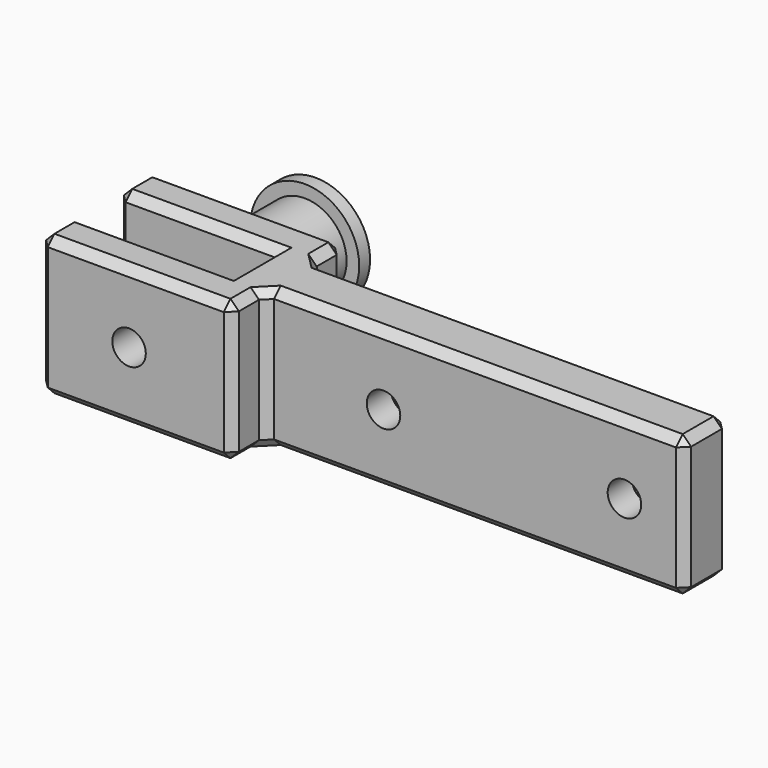
from build123d import *

# Parameters (mm, degrees)
F1_DEPTH      = 16.75
F2_R          = 2
F3_DEPTH      = 12.5
F4_SIZE       = 1
F2_R_2        = 3.2
F5_DEPTH      = 25
F6_DEPTH      = 15.55
F7_R          = 3.05
F7_R_2        = 2
F8_DEPTH      = 2.675
F8_DEPTH_BACK = 18
F9_START      = -8.275
F7_R_3        = 5
F9_DEPTH      = 9.725
F10_START     = -0.3
F2_R_3        = 3
F10_DEPTH     = 9.85
F11_START     = -17.925
F7_R_4        = 6.5
F11_DEPTH     = 1.625


with BuildPart() as f1:
    # F0 (on Top) → F1 (new body)
    with BuildSketch(Plane.XY):
        Polygon((-20.9333471719, 8.3), (-43.9333471719, 8.3), (-43.9333471719, 3.3), (-24.9333471719, 3.3), (-24.9333471719, 0), (-24.9333471719, -3.3), (-43.9333471719, -3.3), (-43.9333471719, -8.3), (-20.9333471719, -8.3), (-20.9333471719, -3.3), (-20.9333471719, 0), (-20.9333471719, 3.3), align=None)
        Polygon((29.0258359164, 3.3), (-20.9333471719, 3.3), (-20.9333471719, 0), (-20.9333471719, -3.3), (29.0258359164, -3.3), (29.0258359164, 0), align=None)
    extrude(amount=F1_DEPTH)

    # F2 (on Front) → F3 (cut, symmetric)
    with BuildSketch(Plane.XZ):
        with Locations((21.8758359164, 8.375)):
            Circle(F2_R)
        with Locations((-6.8741640836, 8.382800118)):
            Circle(F2_R)
    extrude(amount=F3_DEPTH, both=True, mode=Mode.SUBTRACT)

    # F4
    f4_edges = [f1.edges().sort_by_distance(p)[0] for p in [
        (-32.433347, -8.3, 16.75),
        (-20.933347, -5.8, 16.75),
        (4.046244, -3.3, 16.75),
        (29.025836, 0, 16.75),
        (4.046244, 3.3, 16.75),
        (-20.933347, 5.8, 16.75),
        (-32.433347, 8.3, 16.75),
        (-43.933347, 5.8, 16.75),
        (-43.933347, -5.8, 16.75),
        (29.025836, -3.3, 8.375),
        (29.025836, 3.3, 8.375),
        (4.046244, 3.3, 0),
        (4.046244, -3.3, 0),
        (-20.933347, -5.8, 0),
        (-20.933347, 5.8, 0),
        (-20.933347, -8.3, 8.375),
        (-20.933347, 8.3, 8.375),
        (-32.433347, 8.3, 0),
        (-32.433347, -8.3, 0),
        (-24.933347, 0, 0),
        (-24.933347, 0, 16.75),
        (-34.433347, 3.3, 16.75),
        (-34.433347, -3.3, 16.75),
        (-34.433347, -3.3, 0),
        (-34.433347, 3.3, 0),
        (-43.933347, -8.3, 8.375),
        (-43.933347, 8.3, 8.375),
        (-43.933347, 3.3, 8.375),
        (-43.933347, -3.3, 8.375),
        (-43.933347, 5.8, 0),
        (-43.933347, -5.8, 0),
        (29.025836, 0, 0),
        (-20.933347, -3.3, 8.375),
        (-20.933347, 3.3, 8.375),
    ]]
    chamfer(f4_edges, length=F4_SIZE)

    # F2 (on Front) → F5 (cut)
    with BuildSketch(Plane.XZ):
        with Locations((-33.2333471719, 8.375)):
            Circle(F2_R_2)
        with Locations((-33.2333471719, 8.375)):
            Circle(F2_R, mode=Mode.SUBTRACT)
        with Locations((-33.2333471719, 8.375)):
            Circle(F2_R)
    extrude(amount=-F5_DEPTH, mode=Mode.SUBTRACT)

    # F2 (on Front) → F6 (cut)
    with BuildSketch(Plane.XZ):
        with Locations((-33.2333471719, 8.375)):
            Circle(F2_R)
    extrude(amount=F6_DEPTH, mode=Mode.SUBTRACT)

    # F2 (on Front) → F10 (cut)
    with BuildSketch(Plane.XZ.offset(F10_START)):
        with Locations((21.8758359164, 8.375)):
            Circle(F2_R_3)
        with Locations((21.8758359164, 8.375)):
            Circle(F2_R, mode=Mode.SUBTRACT)
        with Locations((-6.8741640836, 8.382800118)):
            Circle(F2_R_3)
        with Locations((-6.8741640836, 8.382800118)):
            Circle(F2_R, mode=Mode.SUBTRACT)
    extrude(amount=-F10_DEPTH, mode=Mode.SUBTRACT)


with BuildPart() as f8:
    # F7 (on Front) → F8 (new body, two sides)
    with BuildSketch(Plane.XZ) as f8_sk:
        with Locations((-33.2561954856, 8.3787553012)):
            Circle(F7_R)
        with Locations((-33.2561954856, 8.3787553012)):
            Circle(F7_R_2, mode=Mode.SUBTRACT)
    extrude(amount=F8_DEPTH)
    extrude(f8_sk.sketch, amount=-F8_DEPTH_BACK)



with BuildPart() as f9:
    # F7 (on Front) → F9 (new body)
    with BuildSketch(Plane.XZ.offset(F9_START)):
        with Locations((-33.2561954856, 8.3787553012)):
            Circle(F7_R_3)
        with Locations((-33.2561954856, 8.3787553012)):
            Circle(F7_R, mode=Mode.SUBTRACT)
    extrude(amount=-F9_DEPTH)


with BuildPart() as f8_1:
    add(f8.part)

    add(f9.part)  # F11 merges F9
    # F7 (on Front) → F11 (join)
    with BuildSketch(Plane.XZ.offset(F11_START)):
        with Locations((-33.2561954856, 8.3787553012)):
            Circle(F7_R_4)
        with Locations((-33.2561954856, 8.3787553012)):
            Circle(F7_R_3, mode=Mode.SUBTRACT)
        with Locations((-33.2561954856, 8.3787553012)):
            Circle(F7_R_3)
        with Locations((-33.2561954856, 8.3787553012)):
            Circle(F7_R, mode=Mode.SUBTRACT)
        with Locations((-33.2561954856, 8.3787553012)):
            Circle(F7_R)
        with Locations((-33.2561954856, 8.3787553012)):
            Circle(F7_R_2, mode=Mode.SUBTRACT)
    extrude(amount=-F11_DEPTH)


solid = Compound([f1.part, f8_1.part])
